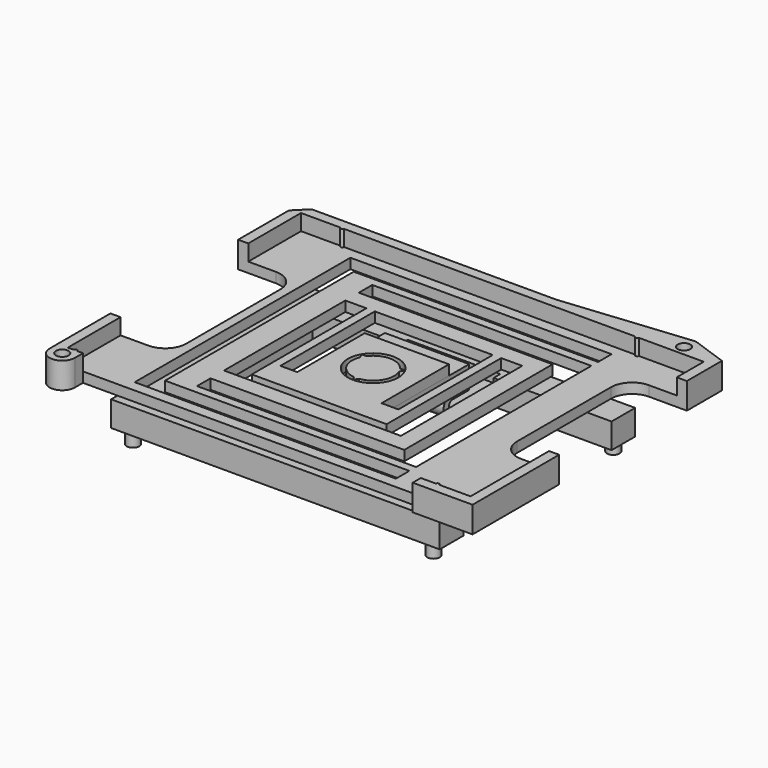
from build123d import *

# Parameters (mm, degrees)
SKETCH007_W       = 47.8
SKETCH007_H       = 34.6
PAD005_DEPTH      = 1.2
SKETCH008_R       = 0.75
PAD006_DEPTH      = 3.1
POCKET001_DEPTH   = 3.101
SKETCH005_W       = 31
SKETCH005_H       = 32
POCKET002_DEPTH   = 5
SKETCH023_W       = 21
SKETCH023_H       = 18
PAD_DEPTH         = 1.2
PAD015_DEPTH      = 1.2
SKETCH013_R       = 0.75
POCKET_DEPTH      = 2.601
POCKET_DEPTH_BACK = -0.501
SKETCH034_R       = 3
POCKET006_DEPTH   = 5
PAD019_DEPTH      = 3
SKETCH_R          = 0.75
PAD020_DEPTH      = 1.6
SKETCH030_W       = 1
SKETCH030_H       = 2
POCKET003_DEPTH   = 5.5
PAD021_DEPTH      = 5
PAD022_DEPTH      = 1.2


with BuildPart() as plastic_tek1_display_interface_top_part:
    # Sketch007 (on DatumPlane) → Pad005 (new body)
    with BuildSketch(Plane.XY.offset(5.5)):
        with Locations((1.5, 0)):
            Rectangle(SKETCH007_W, SKETCH007_H)
    extrude(amount=PAD005_DEPTH)

    # Sketch008 (on DatumPlane) → Pad006 (join)
    with BuildSketch(Plane.XY.offset(5.5)):
        with BuildLine():
            Line((-22.4, -17.3), (-22.4, 17.3))
            Line((-22.4, 17.3), (-17.7, 17.3))
            ThreePointArc((-17.7, 17.3), (-17.5, 17.1), (-17.3, 17.3))
            Line((-17.3, 17.3), (17.3, 17.3))
            ThreePointArc((17.3, 17.3), (17.5, 17.1), (17.7, 17.3))
            Line((17.7, 17.3), (25.4, 17.3))
            Line((25.4, 17.3), (25.4, -17.3))
            Line((21.7, -17.3), (25.4, -17.3))
            ThreePointArc((21.7, -17.3), (21.5, -17.1), (21.3, -17.3))
            Line((19.5, -17.3), (21.3, -17.3))
            Line((19.5, -17.3), (19.5, -18.5))
            Line((19.5, -18.5), (26.6, -18.5))
            Line((26.6, 18.5), (26.6, -18.5))
            Line((22.6, 19.914214), (26.6, 18.5))
            ThreePointArc((22.6, 19.914214), (22.280063, 19.989153), (21.951485, 19.99263))
            Line((21.951485, 19.99263), (6.95, 18.5))
            Line((-22.1, 18.5), (6.95, 18.5))
            Line((-23.6, 17), (-22.1, 18.5))
            Line((-23.6, -18.5), (-23.6, 17))
            ThreePointArc((-23.6, -18.5), (-22.1, -20), (-20.6, -18.5))
            Line((-20.6, -18.5), (-20.6, -17.3))
            Line((-21.3, -17.3), (-20.6, -17.3))
            ThreePointArc((-21.3, -17.3), (-21.5, -17.1), (-21.7, -17.3))
            Line((-22.4, -17.3), (-21.7, -17.3))
        make_face()
        with Locations((-22.1, -18.5)):
            Circle(SKETCH008_R, mode=Mode.SUBTRACT)
    extrude(amount=PAD006_DEPTH)

    # Sketch009 (on DatumPlane) → Pocket001 (cut, through all)
    with BuildSketch(Plane.XY.offset(5.5)):
        with BuildLine():
            Line((19.6, -3.15), (19.6, 10.8))
            ThreePointArc((22.1, 13.3), (20.332233, 12.567767), (19.6, 10.8))
            Line((22.1, 13.3), (26.6, 13.3))
            Line((26.6, 13.3), (26.6, -5.65))
            Line((26.6, -5.65), (22.1, -5.65))
            ThreePointArc((19.6, -3.15), (20.332233, -4.917767), (22.1, -5.65))
        make_face()
        with BuildLine():
            Line((-23.6, 9.475), (-19.1, 9.475))
            ThreePointArc((-16.6, 6.975), (-17.332233, 8.742767), (-19.1, 9.475))
            Line((-16.6, 6.975), (-16.6, -6.975))
            ThreePointArc((-19.1, -9.475), (-17.332233, -8.742767), (-16.6, -6.975))
            Line((-19.1, -9.475), (-23.6, -9.475))
            Line((-23.6, -9.475), (-23.6, 9.475))
        make_face()
    extrude(amount=POCKET001_DEPTH, mode=Mode.SUBTRACT)

    # Sketch005 (on DatumPlane) → Pocket002 (cut)
    with BuildSketch(Plane.XY.offset(5.5)):
        Rectangle(SKETCH005_W, SKETCH005_H)
    extrude(amount=POCKET002_DEPTH, mode=Mode.SUBTRACT)

    # Sketch023 (on DatumPlane) → Pad (join)
    with BuildSketch(Plane.XY.offset(5.5)):
        Polygon((-13.5, -14), (-13.5, 14), (-10.5, 14), (15.5, 14), (15.5, 13), (-10.5, 13), (-10.5, 11), (12.5, 11), (12.5, -11), (-10.5, -11), (-10.5, -13), (15.5, -13), (15.5, -14), (-10.5, -14), align=None)
        Rectangle(SKETCH023_W, SKETCH023_H, mode=Mode.SUBTRACT)
    extrude(amount=PAD_DEPTH)

    # Sketch020 (on DatumPlane) → Pad015 (join)
    with BuildSketch(Plane.XY.offset(5.5)):
        Polygon((-5, -5), (-5, 5), (5, 5), (5, -5), (7, -5), (7, 10), (8, 10), (8, -8), (-8, -8), (-8, 10), (-7, 10), (-7, -5), align=None)
    extrude(amount=PAD015_DEPTH)

    # Sketch013 (on DatumPlane) → Pocket (cut, two sides)
    with BuildSketch(Plane.XY.offset(8.1)) as pocket_sk:
        with Locations((22.1, 18.5)):
            Circle(SKETCH013_R)
        with Locations((-22.1, -18.5)):
            Circle(SKETCH013_R)
    extrude(amount=-POCKET_DEPTH, mode=Mode.SUBTRACT)
    extrude(pocket_sk.sketch, amount=-POCKET_DEPTH_BACK, mode=Mode.SUBTRACT)

    # Sketch034 (on DatumPlane) → Pocket006 (cut)
    with BuildSketch(Plane.XY.offset(5.5)):
        Circle(SKETCH034_R)
    extrude(amount=POCKET006_DEPTH, mode=Mode.SUBTRACT)


with BuildPart() as body002:
    # Sketch029 → Pad019 (new body)
    with BuildSketch(Plane.XY):
        Polygon((-19.5, -14.5), (-19.5, 14.5), (19.5, 14.5), (19.5, 11), (-16, 11), (-16, -11), (19.5, -11), (19.5, -14.5), align=None)
    extrude(amount=PAD019_DEPTH)

    # Sketch → Pad020 (join)
    with BuildSketch(Plane.XY):
        with Locations((-17.835, 13.34)):
            Circle(SKETCH_R)
        with Locations((-17.835, -13.34)):
            Circle(SKETCH_R)
        with Locations((17.835, -13.34)):
            Circle(SKETCH_R)
        with Locations((17.835, 13.34)):
            Circle(SKETCH_R)
    extrude(amount=-PAD020_DEPTH)

    # Sketch030 → Pocket003 (cut, symmetric)
    with BuildSketch(Plane.YZ):
        with Locations((-11.5, 2)):
            Rectangle(SKETCH030_W, SKETCH030_H)
        with Locations((11.5, 2)):
            Rectangle(SKETCH030_W, SKETCH030_H)
    extrude(amount=POCKET003_DEPTH, both=True, mode=Mode.SUBTRACT)


with BuildPart() as body003:
    # Sketch032 → Pad021 (new body, symmetric)
    with BuildSketch(Plane.YZ):
        with BuildLine():
            Line((-12, 1.8), (-12, 1))
            Line((-5.5, 1), (-12, 1))
            ThreePointArc((-5.5, 1), (-4.2, 2.3), (-5.5, 3.6))
            Line((-7, 3.6), (-5.5, 3.6))
            Line((-7, 4.3), (-7, 3.6))
            Line((-7, 4.3), (0, 4.3))
            Line((0, 5.5), (0, 4.3))
            Line((-8, 5.5), (0, 5.5))
            Line((-8, 5.5), (-8, 2.8))
            Line((-8, 2.8), (-5.5, 2.8))
            ThreePointArc((-5.5, 1.8), (-5, 2.3), (-5.5, 2.8))
            Line((-5.5, 1.8), (-12, 1.8))
        make_face()
    pad021 = extrude(amount=PAD021_DEPTH, both=True)

    # Mirrored004: Pad021 across Sketch027 V_Axis
    add(pad021.mirror(Plane(origin=(0, 0, 0), x_dir=(1, 0, 0), z_dir=(0, 1, 0))))

    # Sketch026 (on DatumPlane) → Pad022 (join)
    with BuildSketch(Plane.XY.offset(5.5)):
        with BuildLine():
            ThreePointArc((-2.299038, 0.982051), (-2.165064, -1.25), (-0.299038, -2.482051))
            Line((0, -3), (-0.299038, -2.482051))
            Line((0, -3), (0.299038, -2.482051))
            ThreePointArc((0.299038, -2.482051), (2.165064, -1.25), (2.299038, 0.982051))
            Line((2.598076, 1.5), (2.299038, 0.982051))
            Line((2.598076, 1.5), (2, 1.5))
            ThreePointArc((2, 1.5), (0, 2.5), (-2, 1.5))
            Line((-2.598076, 1.5), (-2, 1.5))
            Line((-2.598076, 1.5), (-2.299038, 0.982051))
        make_face()
    extrude(amount=PAD022_DEPTH)


solid = Compound([plastic_tek1_display_interface_top_part.part, body002.part, body003.part])
